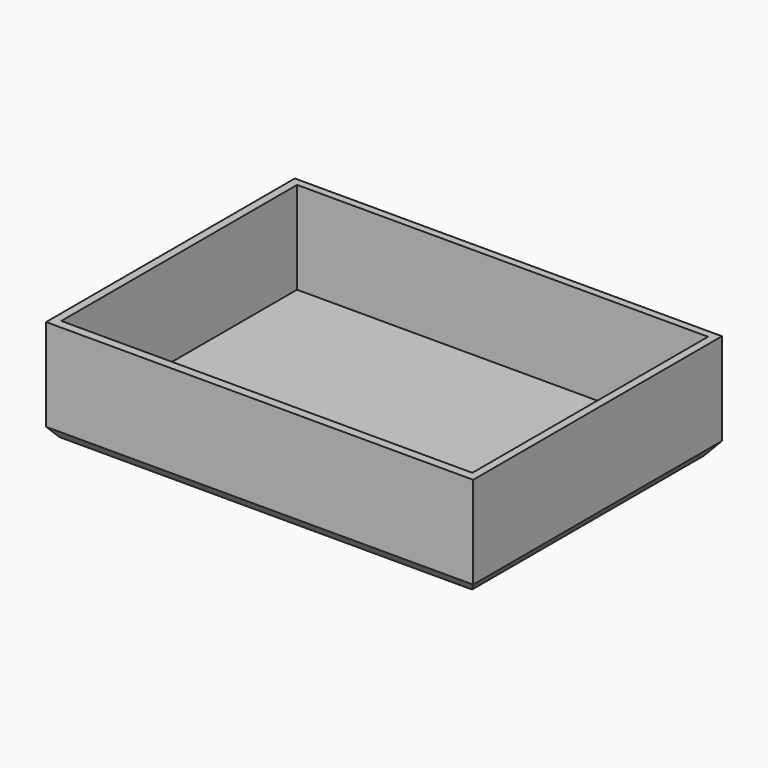
from build123d import *

# Parameters (mm, degrees)
F2_W     = 318.651054
F2_H     = 231.963271
F0_W     = 307.6956
F0_H     = 216.0778
F4_W     = 318.651054
F4_H     = 231.963271
F4_W_2   = 306.659011
F4_H_2   = 219.821908
F5_DEPTH = 68.834


with BuildPart() as f3:
    # F2 (on offset) → F3 section 0
    with BuildSketch(Plane.XY.offset(7.366)):
        with Locations((141.120864, -93.160706)):
            Rectangle(F2_W, F2_H)
    # F0 (on Top) → F3 section 1
    with BuildSketch(Plane.XY):
        with Locations((141.1478, -95.3389)):
            Rectangle(F0_W, F0_H)
    loft()

    # F4 (on face) → F5 (join)
    with BuildSketch(Plane.XY.offset(7.366)):
        with Locations((141.120864, -93.160706)):
            Rectangle(F4_W, F4_H)
        with Locations((141.217903, -92.630219)):
            Rectangle(F4_W_2, F4_H_2, mode=Mode.SUBTRACT)
    extrude(amount=F5_DEPTH)


solid = f3.part
